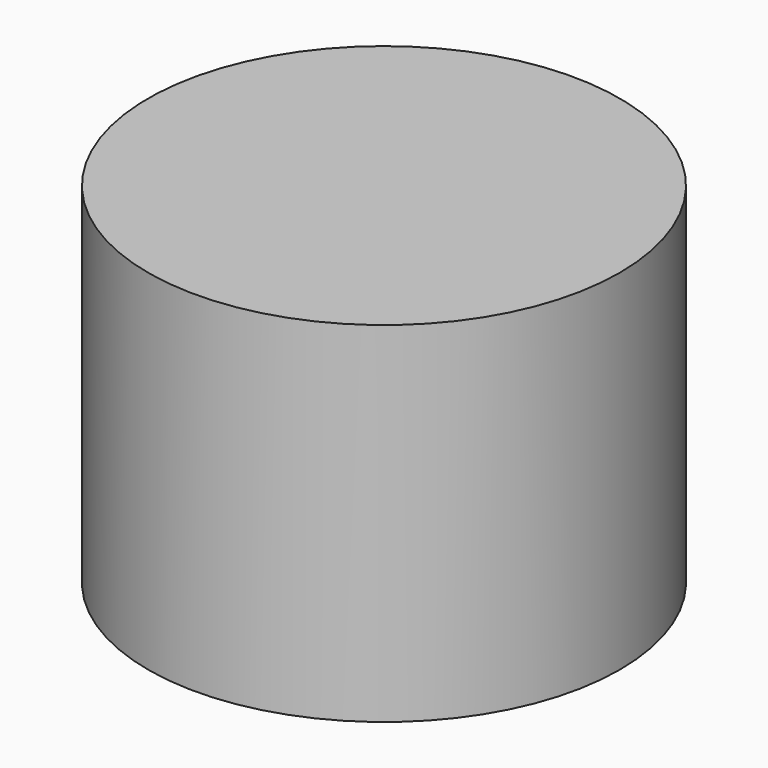
from build123d import *

# Parameters (mm, degrees)
F2_SIZE = 3


with BuildPart() as f1:
    # F0 (on Front) → F1 (revolve)
    with BuildSketch(Plane.XZ):
        Polygon((13.5, 20), (0, 20), (0, 18), (1.5, 18), (1.5, 13), (3, 13), (3, 18), (12.5, 18), (12.5, 0.142242), (13.5, 0), align=None)
    revolve(axis=Axis((0, 0, 25.805777), (0, 0, 1)))

    # F2
    f2_edges = [f1.edges().sort_by_distance(p)[0] for p in [
        (-3, 0, 18),
        (-12.5, 0, 18),
    ]]
    chamfer(f2_edges, length=F2_SIZE)


solid = f1.part
